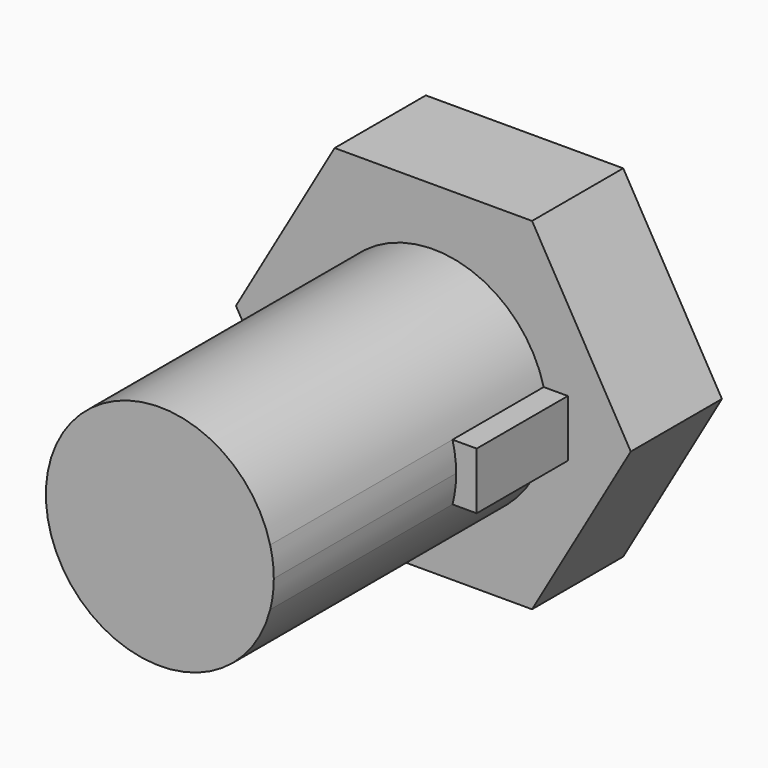
from build123d import *

# Parameters (mm, degrees)
F1_DEPTH = 10
F2_DEPTH = 40
F3_DEPTH = 20


with BuildPart() as f1:
    # F0 (on Front) → F1 (new body)
    with BuildSketch(Plane.XZ):
        Polygon((8.660254, 15), (-8.660254, 15), (-17.320508, 0), (-8.660254, -15), (8.660254, -15), (17.320508, 0), align=None)
        with BuildLine():
            ThreePointArc((9.682458, -2.5), (-10, 0), (9.682458, 2.5))
            Line((9.682458, 2.5), (11.801308, 2.5))
            Line((11.801308, 2.5), (11.801308, 0))
            Line((11.801308, 0), (11.801308, -2.5))
            Line((11.801308, -2.5), (9.682458, -2.5))
        make_face(mode=Mode.SUBTRACT)
    extrude(amount=F1_DEPTH)

    # F0 (on Front) → F2 (join)
    with BuildSketch(Plane.XZ):
        with BuildLine():
            ThreePointArc((9.682458, -2.5), (9.920297, -1.260043), (10, 0))
            ThreePointArc((10, 0), (9.920297, 1.260043), (9.682458, 2.5))
            ThreePointArc((9.682458, 2.5), (-10, 0), (9.682458, -2.5))
        make_face()
    extrude(amount=F2_DEPTH)

    # F0 (on Front) → F3 (join)
    with BuildSketch(Plane.XZ):
        with BuildLine():
            ThreePointArc((9.682458, 2.5), (9.920297, 1.260043), (10, 0))
            ThreePointArc((10, 0), (9.920297, -1.260043), (9.682458, -2.5))
            Line((9.682458, -2.5), (11.801308, -2.5))
            Line((11.801308, -2.5), (11.801308, 0))
            Line((11.801308, 0), (11.801308, 2.5))
            Line((11.801308, 2.5), (9.682458, 2.5))
        make_face()
    extrude(amount=F3_DEPTH)


solid = f1.part
